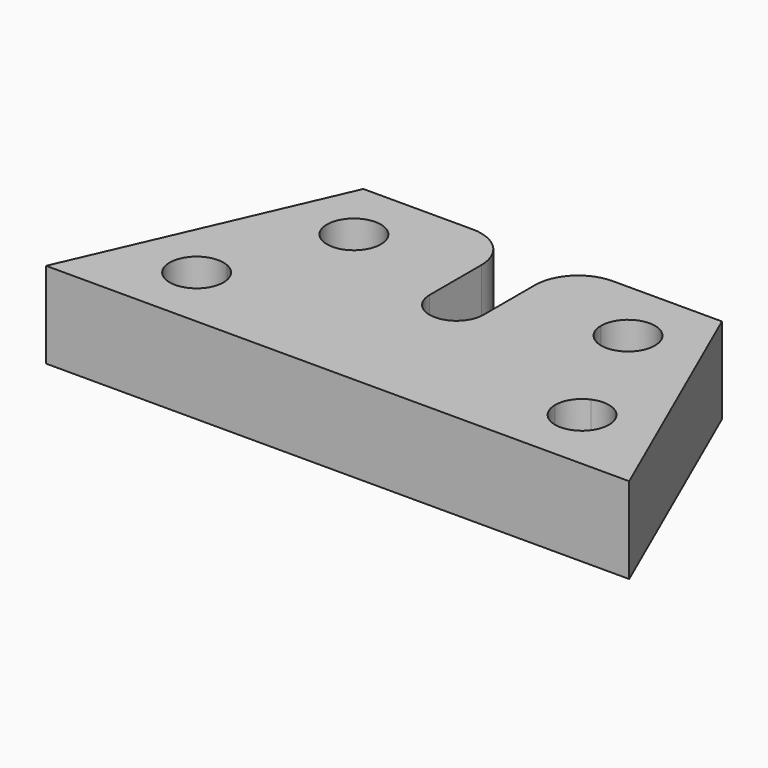
from build123d import *

# Parameters (mm, degrees)
F1_DEPTH = 13
F2_W     = 5
F2_H     = 13
F3_DEPTH = 10
F5_DEPTH = 25
F6_R     = 4
F7_DEPTH = 5


with BuildPart() as f1:
    # F0 (on Top) → F1 (new body)
    with BuildSketch(Plane.XY):
        Polygon((16.6518093675, 6), (-16.6518093675, 6), (-27.0794364862, -17.8), (27.0794364862, -17.8), align=None)
        with BuildLine():
            Line((-16.8967314602, -9.5101414373), (-13.7332685398, -2.2898585627))
            ThreePointArc((-13.7332685398, -2.2898585627), (-14.0978137027, 2.0926265015), (-10.23, 0))
            Line((-10.23, 0), (10.23, 0))
            ThreePointArc((10.23, 0), (12.73, 2.5), (15.23, 0))
            ThreePointArc((15.23, 0), (14.8226265015, -1.3678137027), (13.7332685398, -2.2898585627))
            Line((13.7332685398, -2.2898585627), (16.8967314602, -9.5101414373))
            ThreePointArc((16.8967314602, -9.5101414373), (19.2678137027, -9.7073734985), (20.4, -11.8))
            ThreePointArc((20.4, -11.8), (17.9, -14.3), (15.4, -11.8))
            Line((15.4, -11.8), (-15.4, -11.8))
            ThreePointArc((-15.4, -11.8), (-19.9926265015, -13.1678137027), (-16.8967314602, -9.5101414373))
        make_face(mode=Mode.SUBTRACT)
        with BuildLine():
            ThreePointArc((-10.23, 0), (-11.3621862973, -2.0926265015), (-13.7332685398, -2.2898585627))
            Line((-13.7332685398, -2.2898585627), (-16.8967314602, -9.5101414373))
            ThreePointArc((-16.8967314602, -9.5101414373), (-15.8073734985, -10.4321862973), (-15.4, -11.8))
            Line((-15.4, -11.8), (15.4, -11.8))
            ThreePointArc((15.4, -11.8), (15.8073734985, -10.4321862973), (16.8967314602, -9.5101414373))
            Line((16.8967314602, -9.5101414373), (13.7332685398, -2.2898585627))
            ThreePointArc((13.7332685398, -2.2898585627), (11.3621862973, -2.0926265015), (10.23, 0))
            Line((10.23, 0), (-10.23, 0))
        make_face()
    extrude(amount=F1_DEPTH)

    # F2 (on face) → F3 (cut)
    with BuildSketch(Plane(origin=(0, 6, 0), x_dir=(-1, 0, 0), z_dir=(0, 1, 0))):
        with Locations((0, 6.5)):
            Rectangle(F2_W, F2_H)
    extrude(amount=-F3_DEPTH, mode=Mode.SUBTRACT)

    # F4 (on face) → F5 (cut)
    with BuildSketch(Plane.XY.offset(13)):
        with BuildLine():
            Line((2.5, -4), (-2.5, -4))
            ThreePointArc((-2.5, -4), (0, -6.5), (2.5, -4))
        make_face()
    extrude(amount=-F5_DEPTH, mode=Mode.SUBTRACT)

    # F6
    f6_edges = [f1.edges().sort_by_distance(p)[0] for p in [
        (2.5, 6, 6.5),
        (-2.5, 6, 6.5),
    ]]
    fillet(f6_edges, radius=F6_R)

    # F7 (cut): a face of the model
    f7_faces = [f1.faces().sort_by_distance(p)[0] for p in [
        (0, -7.4780389875, 13),
    ]]
    extrude(f7_faces, amount=-F7_DEPTH, mode=Mode.SUBTRACT)


solid = f1.part
